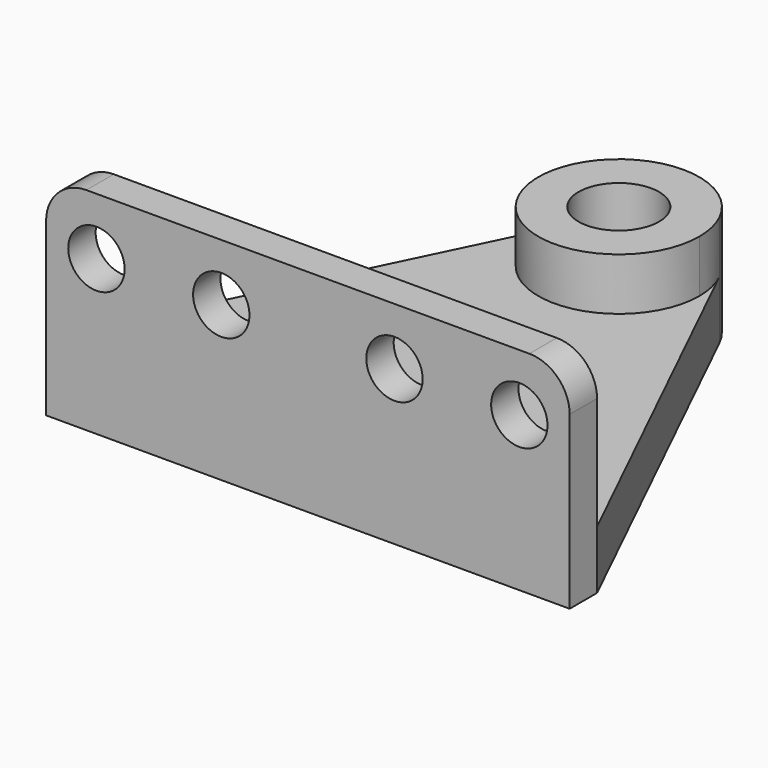
from build123d import *

# Parameters (mm, degrees)
F0_W     = 33.02
F0_H     = 2.159
F0_R     = 2.54
F1_DEPTH = 3.683
F2_DEPTH = 13.335
F3_DEPTH = 6.985
F4_R     = 1.778
F5_DEPTH = 25.4
F6_R     = 2.54
F8_R     = 1.0795
F9_DEPTH = 3.81


with BuildPart() as f1:
    # F0 (on Top) → F1 (new body)
    with BuildSketch(Plane.XY):
        with Locations((12.518704, 1.0795)):
            Rectangle(F0_W, F0_H)
        with BuildLine():
            Line((7.949625, 26.731342), (-3.991296, 2.159))
            Line((-3.991296, 2.159), (29.028704, 2.159))
            Line((29.028704, 2.159), (17.087783, 26.731342))
            ThreePointArc((17.087783, 26.731342), (17.469326, 25.650184), (17.598704, 24.511))
            ThreePointArc((17.598704, 24.511), (11.37952, 19.560378), (7.949625, 26.731342))
        make_face()
        with BuildLine():
            ThreePointArc((17.087783, 26.731342), (12.518704, 29.591), (7.949625, 26.731342))
            ThreePointArc((7.949625, 26.731342), (11.37952, 19.560378), (17.598704, 24.511))
            ThreePointArc((17.598704, 24.511), (17.469326, 25.650184), (17.087783, 26.731342))
        make_face()
        with Locations((12.518704, 24.511)):
            Circle(F0_R, mode=Mode.SUBTRACT)
    extrude(amount=F1_DEPTH)

    # F0 (on Top) → F2 (join)
    with BuildSketch(Plane.XY):
        with Locations((12.518704, 1.0795)):
            Rectangle(F0_W, F0_H)
    extrude(amount=F2_DEPTH)

    # F0 (on Top) → F3 (join)
    with BuildSketch(Plane.XY):
        with BuildLine():
            ThreePointArc((17.087783, 26.731342), (12.518704, 29.591), (7.949625, 26.731342))
            ThreePointArc((7.949625, 26.731342), (11.37952, 19.560378), (17.598704, 24.511))
            ThreePointArc((17.598704, 24.511), (17.469326, 25.650184), (17.087783, 26.731342))
        make_face()
        with Locations((12.518704, 24.511)):
            Circle(F0_R, mode=Mode.SUBTRACT)
    extrude(amount=F3_DEPTH)

    # F4 (on face) → F5 (cut)
    with BuildSketch(Plane(origin=(0, 2.159, 0), x_dir=(-1, 0, 0), z_dir=(0, 1, 0))):
        with Locations((0.816296, 9.730688)):
            Circle(F4_R)
        with Locations((-25.853704, 9.730688)):
            Circle(F4_R)
        with Locations((-17.979704, 9.730688)):
            Circle(F4_R)
        with Locations((-7.057704, 9.730688)):
            Circle(F4_R)
    extrude(amount=-F5_DEPTH, mode=Mode.SUBTRACT)

    # F6
    f6_edges = [f1.edges().sort_by_distance(p)[0] for p in [
        (-3.991296, 1.0795, 13.335),
        (29.028704, 1.0795, 13.335),
    ]]
    fillet(f6_edges, radius=F6_R)

    # F8 (on offset) → F9 (cut)
    with BuildSketch(Plane.XZ.offset(-29.591)):
        with Locations((12.518704, 3.4925)):
            Circle(F8_R)
    extrude(amount=F9_DEPTH, mode=Mode.SUBTRACT)


solid = f1.part
